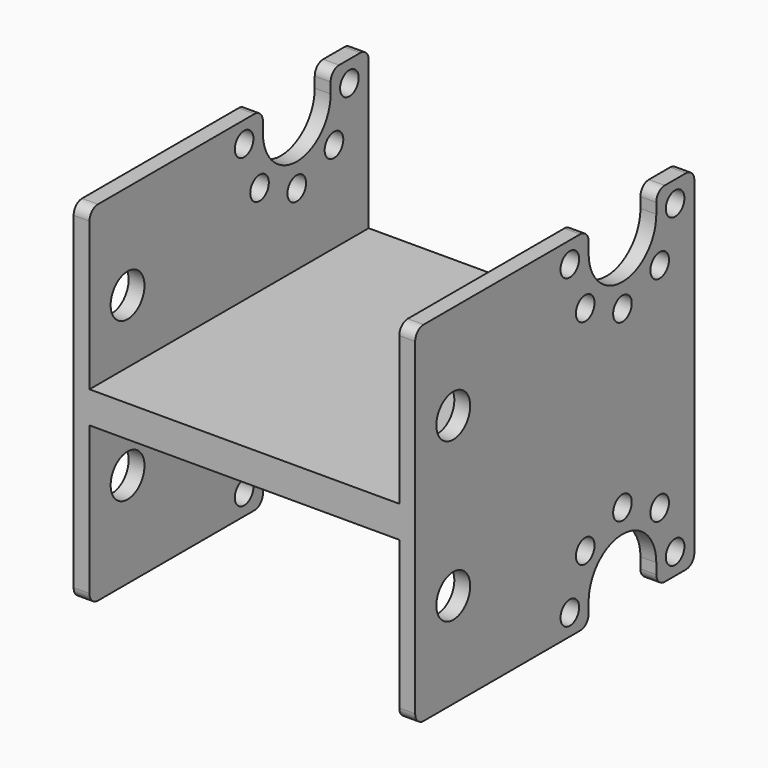
from build123d import *

# Parameters (mm, degrees)
F1_DEPTH = 33
F2_R     = 1.1
F2_R_2   = 2
F3_DEPTH = 32.301
F4_R     = 1


with BuildPart() as f1:
    # F0 (on Front) → F1 (new body)
    with BuildSketch(Plane.XZ):
        Polygon((0, 26.5), (0, 0), (1.5, 0), (1.5, 25), (30.8, 25), (30.8, 0), (32.3, 0), (32.3, 26.5), align=None)
    extrude(amount=F1_DEPTH)

    # F2 (on face) → F3 (cut, through all)
    with BuildSketch(Plane(origin=(0, 0, 0), x_dir=(0, -1, 0), z_dir=(-1, 0, 0))):
        with BuildLine():
            Line((0, 10), (0, 0))
            Line((0, 0), (33, 0))
            Line((33, 0), (33, 10))
            Line((33, 10), (12.5, 10))
            Line((12.5, 10), (12.5, 12))
            ThreePointArc((12.5, 12), (8.5, 16), (4.5, 12))
            Line((4.5, 12), (4.5, 10))
            Line((4.5, 10), (0, 10))
        make_face()
        with Locations((14.7225396744, 12)):
            Circle(F2_R)
        with Locations((12.9, 16.4)):
            Circle(F2_R)
        with Locations((8.5, 18.2225396744)):
            Circle(F2_R)
        with Locations((4.1, 16.4)):
            Circle(F2_R)
        with Locations((2.2774603256, 12)):
            Circle(F2_R)
        with Locations((28.5, 19)):
            Circle(F2_R_2)
    extrude(amount=-F3_DEPTH, mode=Mode.SUBTRACT)

    # F4
    f4_edges = [f1.edges().sort_by_distance(p)[0] for p in [
        (31.55, 0, 10),
        (0.75, 0, 10),
        (0.75, -12.5, 10),
        (31.55, -12.5, 10),
        (0.75, -4.5, 10),
        (31.55, -4.5, 10),
        (0.75, -33, 10),
        (31.55, -33, 10),
    ]]
    fillet(f4_edges, radius=F4_R)

    # F6: F1 across plane


with BuildPart() as f1_1:
    add(f1.part)
    add(f1.part.mirror(Plane.XY.offset(26.5)))


solid = f1_1.part
